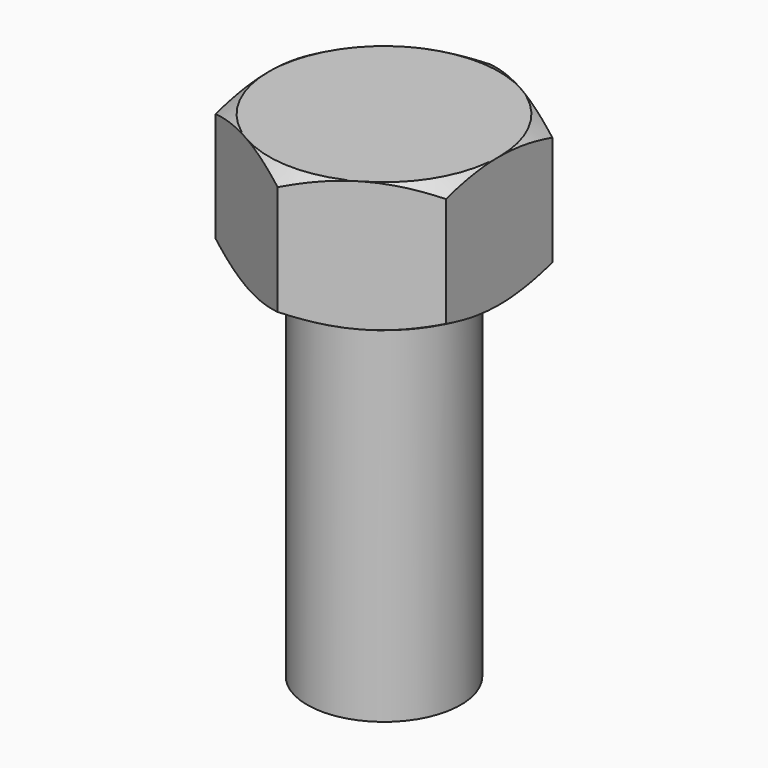
from build123d import *

# Parameters (mm, degrees)
PAD_DEPTH    = 10.19
SKETCH002_R  = 6
PAD001_DEPTH = 28.5


with BuildPart() as part:
    # Sketch → Pad (new body)
    with BuildSketch(Plane.XY):
        Polygon((0, 10.39), (-8.998004, 5.195), (-8.998004, -5.195), (0, -10.39), (8.998004, -5.195), (8.998004, 5.195), align=None)
    extrude(amount=PAD_DEPTH)

    # Sketch002 (on DatumPlane) → Pad001 (join)
    with BuildSketch(Plane(origin=(0, 0, 0), x_dir=(-1, 0, 0), z_dir=(0, 0, -1))):
        Circle(SKETCH002_R)
    extrude(amount=PAD001_DEPTH)

    # Sketch001 → Groove (revolve, cut)
    with BuildSketch(Plane.YZ):
        Polygon((-8.998004, 10.19), (-19.388004, 10.19), (-19.388004, 4.191331), align=None)
        Polygon((-8.998004, 0), (-19.388004, 0), (-19.388004, 5.998669), align=None)
    revolve(axis=Axis((0, 0, 0), (0, 0, 1)), mode=Mode.SUBTRACT)


solid = part.part
